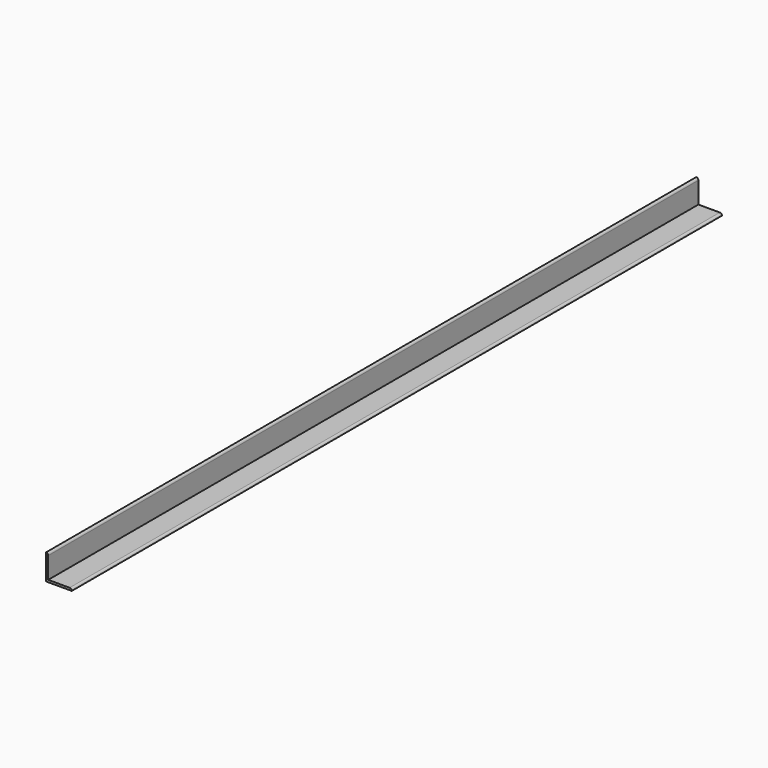
from build123d import *

# Parameters (mm, degrees)
F1_DEPTH = 1206.5


with BuildPart() as f1:
    # F0 (on Front) → F1 (new body)
    with BuildSketch(Plane.XZ):
        with BuildLine():
            Line((0, 38.1), (0, 0))
            Line((0, 0), (38.1, 0))
            ThreePointArc((38.1, 0), (37.170064, 2.245064), (34.925, 3.175))
            Line((34.925, 3.175), (3.175, 3.175))
            Line((3.175, 3.175), (3.175, 34.925))
            ThreePointArc((3.175, 34.925), (2.245064, 37.170064), (0, 38.1))
        make_face()
    extrude(amount=-F1_DEPTH)


solid = f1.part
